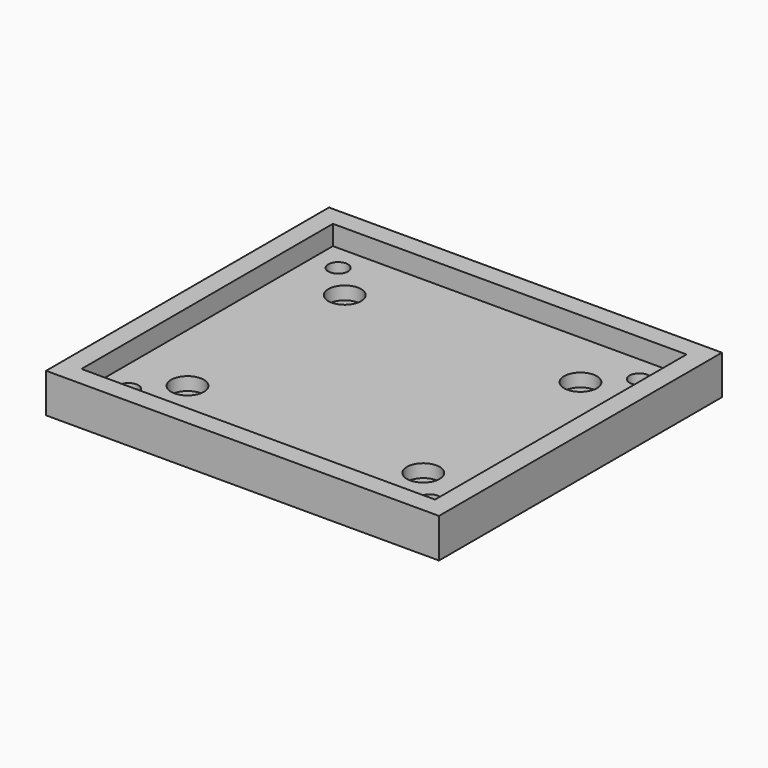
from build123d import *

# Parameters (mm, degrees)
F0_W     = 60
F0_H     = 54
F0_W_2   = 54
F0_H_2   = 48
F1_DEPTH = 3
F2_DEPTH = 3
F3_R     = 2.5
F4_DEPTH = 2
F5_R     = 1.5
F6_DEPTH = 3


with BuildPart() as f1:
    # F0 (on Top) → F1 (new body)
    with BuildSketch(Plane.XY):
        Rectangle(F0_W, F0_H)
        Rectangle(F0_W_2, F0_H_2, mode=Mode.SUBTRACT)
        Rectangle(F0_W_2, F0_H_2)
    extrude(amount=-F1_DEPTH)

    # F0 (on Top) → F2 (join)
    with BuildSketch(Plane.XY):
        Rectangle(F0_W, F0_H)
        Rectangle(F0_W_2, F0_H_2, mode=Mode.SUBTRACT)
    extrude(amount=F2_DEPTH)

    # F3 (on face) → F4 (cut)
    with BuildSketch(Plane.XY):
        with Locations((-18, 15)):
            Circle(F3_R)
        with Locations((18, 15)):
            Circle(F3_R)
        with Locations((18, -15)):
            Circle(F3_R)
        with Locations((-18, -15)):
            Circle(F3_R)
    extrude(amount=-F4_DEPTH, mode=Mode.SUBTRACT)

    # F5 (on face) → F6 (cut, through all)
    with BuildSketch(Plane.XY):
        with Locations((-23, 20)):
            Circle(F5_R)
        with Locations((23, 20)):
            Circle(F5_R)
        with Locations((-23, -20)):
            Circle(F5_R)
        with Locations((23, -20)):
            Circle(F5_R)
    extrude(amount=-F6_DEPTH, mode=Mode.SUBTRACT)


solid = f1.part
